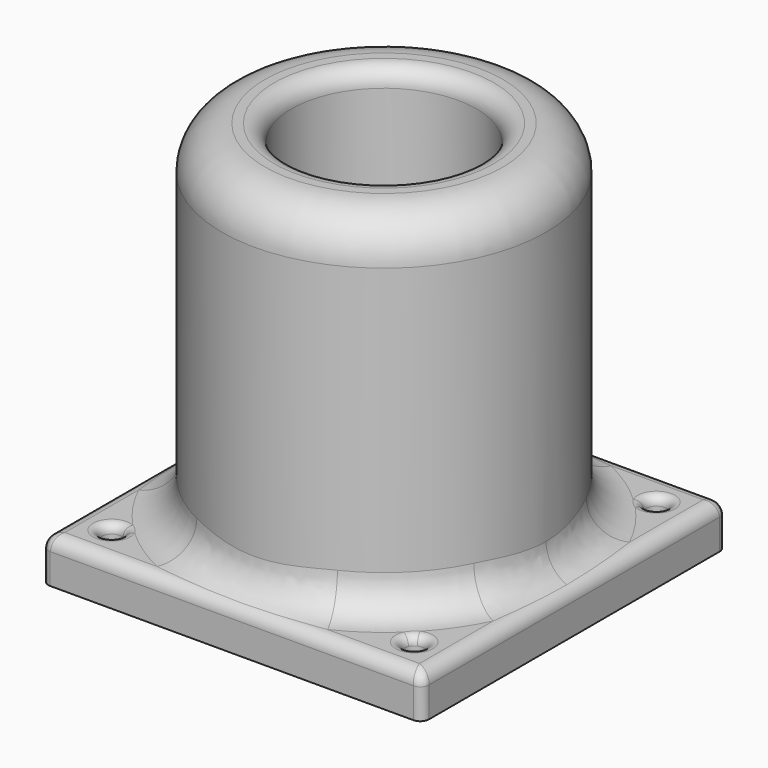
from build123d import *

# Parameters (mm, degrees)
SKETCH_W        = 88
SKETCH_H        = 88
PAD_DEPTH       = 10
SKETCH001_R     = 37.5
PAD001_DEPTH    = 80
SKETCH002_R     = 21.4
POCKET_DEPTH    = 40
SKETCH003_R     = 2.3
POCKET001_DEPTH = 10.001
FILLET_R        = 3
FILLET001_R     = 8
FILLET002_R     = 4
FILLET003_R     = 10
FILLET004_R     = 2
FILLET005_R     = 2


with BuildPart() as part:
    # Sketch → Pad (new body)
    with BuildSketch(Plane.XY):
        Rectangle(SKETCH_W, SKETCH_H)
    extrude(amount=PAD_DEPTH)

    # Sketch001 (on Face6 of Pad) → Pad001 (join)
    with BuildSketch(Plane.XY.offset(10)):
        Circle(SKETCH001_R)
    extrude(amount=PAD001_DEPTH)

    # Sketch002 (on Face8 of Pad001) → Pocket (cut)
    with BuildSketch(Plane.XY.offset(90)):
        Circle(SKETCH002_R)
    extrude(amount=-POCKET_DEPTH, mode=Mode.SUBTRACT)

    # Sketch003 (on Face5 of Pocket) → Pocket001 (cut, through all)
    with BuildSketch(Plane.XY.offset(10)):
        with Locations((-35, 35)):
            Circle(SKETCH003_R)
        with Locations((35, 35)):
            Circle(SKETCH003_R)
        with Locations((35, -35)):
            Circle(SKETCH003_R)
        with Locations((-35, -35)):
            Circle(SKETCH003_R)
    extrude(amount=-POCKET001_DEPTH, mode=Mode.SUBTRACT)

    # Fillet
    fillet_edges = [part.edges().sort_by_distance(p)[0] for p in [
        (44, 0, 10),
        (0, -44, 10),
        (-44, 0, 10),
        (0, 44, 10),
    ]]
    fillet(fillet_edges, radius=FILLET_R)

    # Fillet001
    fillet001_edges = [part.edges().sort_by_distance(p)[0] for p in [
        (-37.5, 0, 10),
    ]]
    fillet(fillet001_edges, radius=FILLET001_R)

    # Fillet002
    fillet002_edges = [part.edges().sort_by_distance(p)[0] for p in [
        (-21.4, 0, 90),
    ]]
    fillet(fillet002_edges, radius=FILLET002_R)

    # Fillet003
    fillet003_edges = [part.edges().sort_by_distance(p)[0] for p in [
        (-37.5, 0, 90),
    ]]
    fillet(fillet003_edges, radius=FILLET003_R)

    # Fillet004
    fillet004_edges = [part.edges().sort_by_distance(p)[0] for p in [
        (42.938147, 42.938147, 9.289888),
        (44, 44, 3.5),
        (44, -44, 3.5),
        (42.938147, -42.938147, 9.289888),
        (-44, 44, 3.5),
        (-42.938147, 42.938147, 9.289888),
        (-42.938147, -42.938147, 9.289888),
        (-44, -44, 3.5),
    ]]
    fillet(fillet004_edges, radius=FILLET004_R)

    # Fillet005
    fillet005_edges = [part.edges().sort_by_distance(p)[0] for p in [
        (32.7, -35, 10),
        (32.7, 35, 10),
        (-37.3, 35, 10),
        (-37.3, -35, 10),
    ]]
    fillet(fillet005_edges, radius=FILLET005_R)


solid = part.part
